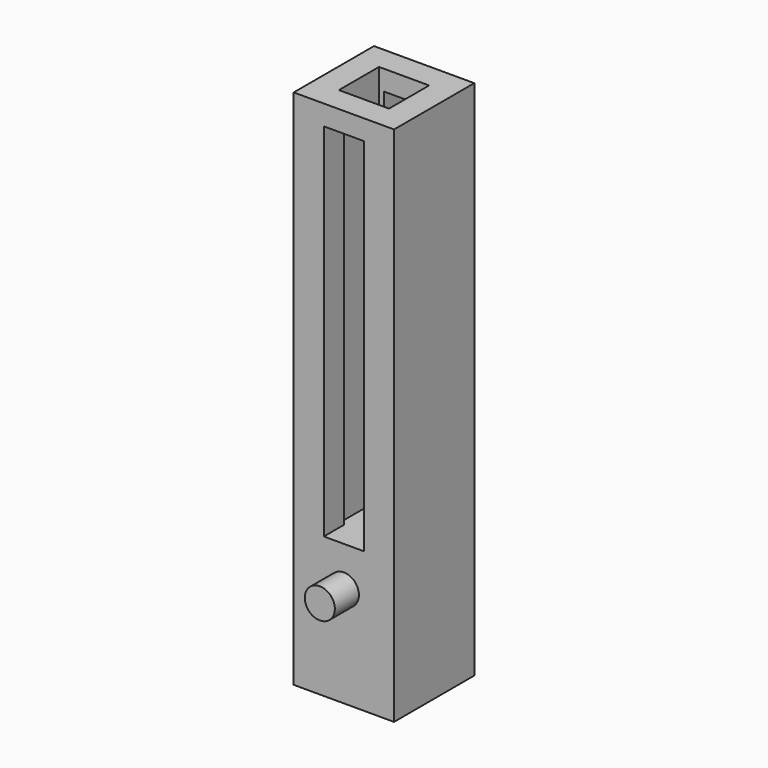
from build123d import *

# Parameters (mm, degrees)
F0_W     = 63.5
F0_H     = 330.2
F0_W_2   = 25.4
F0_H_2   = 228.6
F1_DEPTH = 31.75
F2_W     = 31.75
F2_H     = 31.75
F3_DEPTH = 241.3
F4_R     = 9.525
F5_DEPTH = 19.05


with BuildPart() as f1:
    # F0 (on Front) → F1 (new body, symmetric)
    with BuildSketch(Plane.XZ):
        Rectangle(F0_W, F0_H)
        with Locations((0, 38.1)):
            Rectangle(F0_W_2, F0_H_2, mode=Mode.SUBTRACT)
    extrude(amount=F1_DEPTH, both=True)

    # F2 (on face) → F3 (cut)
    with BuildSketch(Plane.XY.offset(165.1)):
        Rectangle(F2_W, F2_H)
    extrude(amount=-F3_DEPTH, mode=Mode.SUBTRACT)

    # F4 (on face) → F5 (join)
    with BuildSketch(Plane.XZ.offset(31.75)):
        with Locations((0, -101.6)):
            Circle(F4_R)
    extrude(amount=F5_DEPTH)


solid = f1.part
